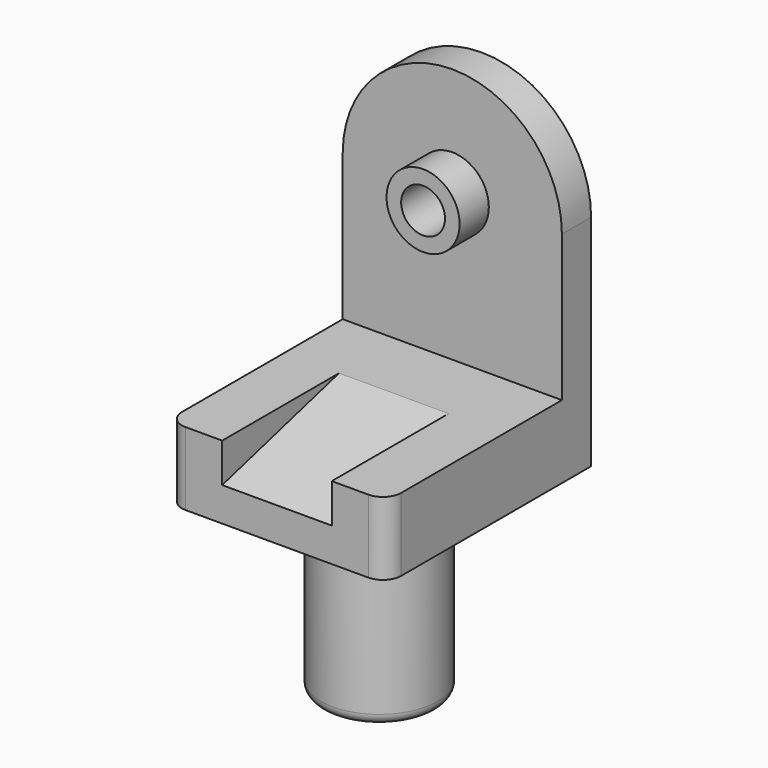
from build123d import *

# Parameters (mm, degrees)
F0_R      = 10
F0_R_2    = 6
F1_DEPTH  = 20
F2_DEPTH  = 10
F0_W      = 60
F0_H      = 20
F3_DEPTH  = 70
F4_R      = 16
F5_DEPTH  = 50
F8_DEPTH  = 63.8
F9_DEPTH  = 15
F10_DEPTH = 15
F11_R     = 3
F12_R     = 5


with BuildPart() as f1:
    # F0 (on Front) → F1 (new body)
    with BuildSketch(Plane.XZ):
        with Locations((-30, 39.9325165922)):
            Circle(F0_R)
        with Locations((-30, 39.9325165922)):
            Circle(F0_R_2, mode=Mode.SUBTRACT)
    extrude(amount=F1_DEPTH)

    # F0 (on Front) → F2 (join)
    with BuildSketch(Plane.XZ):
        with BuildLine():
            Line((-60, 39.9325165922), (-60, -0.0674834078))
            Line((-60, -0.0674834078), (0, -0.0674834078))
            Line((0, -0.0674834078), (0, 39.9325165922))
            ThreePointArc((0, 39.9325165922), (-8.7867965644, 61.1457200278), (-30, 69.9325165922))
            ThreePointArc((-30, 69.9325165922), (-51.2132034356, 61.1457200278), (-60, 39.9325165922))
        make_face()
        with Locations((-30, 39.9325165922)):
            Circle(F0_R, mode=Mode.SUBTRACT)
    extrude(amount=F2_DEPTH)

    # F0 (on Front) → F3 (join)
    with BuildSketch(Plane.XZ):
        with Locations((-30, -10.0674834078)):
            Rectangle(F0_W, F0_H)
    extrude(amount=F3_DEPTH)

    # F4 (on face) → F5 (join)
    with BuildSketch(Plane(origin=(0, 0, -20.0674834078), x_dir=(1, 0, 0), z_dir=(0, 0, -1))):
        with Locations((-30, 35)):
            Circle(F4_R)
    extrude(amount=F5_DEPTH)

    # F7 (on face) → F8 (cut)
    with BuildSketch(Plane(origin=(-60, 0, 0), x_dir=(0, -1, 0), z_dir=(-1, 0, 0))):
        Polygon((70, -10.785451105), (70, -0.0674834078), (30, -0.0674834078), align=None)
    extrude(amount=-F8_DEPTH, mode=Mode.SUBTRACT)

    # F6 (on face) → F9 (join)
    with BuildSketch(Plane.YZ):
        Polygon((-30, -0.0674834078), (-70, -0.0674834078), (-70, -10.785451105), align=None)
        Polygon((-10, -0.0674834078), (-30, -0.0674834078), (-70, -10.785451105), (-70, -20.0674834078), (0, -20.0674834078), (0, 39.9325165922), (-10, 39.9325165922), align=None)
    extrude(amount=-F9_DEPTH)

    # F7 (on face) → F10 (join)
    with BuildSketch(Plane(origin=(-60, 0, 0), x_dir=(0, -1, 0), z_dir=(-1, 0, 0))):
        Polygon((70, -10.785451105), (70, -0.0674834078), (30, -0.0674834078), align=None)
        Polygon((70, -10.785451105), (30, -0.0674834078), (10, -0.0674834078), (10, 39.9325165922), (0, 39.9325165922), (0, -20.0674834078), (70, -20.0674834078), align=None)
    extrude(amount=-F10_DEPTH)

    # F11
    f11_edges = [f1.edges().sort_by_distance(p)[0] for p in [
        (-46, -35, -70.067483),
    ]]
    fillet(f11_edges, radius=F11_R)

    # F12
    f12_edges = [f1.edges().sort_by_distance(p)[0] for p in [
        (-60, -70, -10.067483),
        (0, -70, -10.067483),
    ]]
    fillet(f12_edges, radius=F12_R)


solid = f1.part
